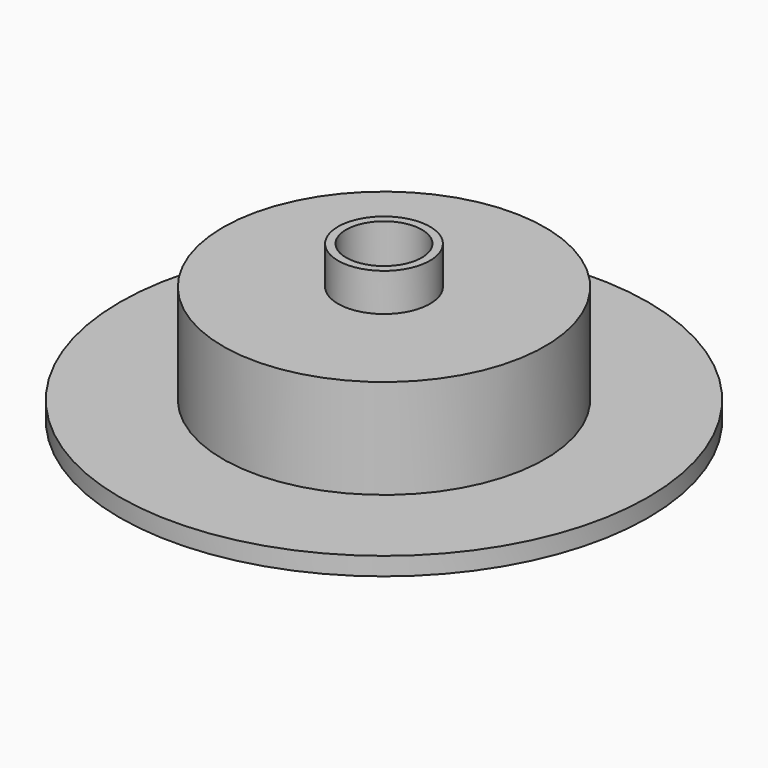
from build123d import *

# Parameters (mm, degrees)
F2_R     = 7
F3_DEPTH = 61.8


with BuildPart() as f1:
    # F0 (on Front) → F1 (revolve)
    with BuildSketch(Plane.XZ):
        Polygon((-84.75, 0), (-19.9375, 0), (-19.9375, 83.8), (-24.225, 83.8), (-24.225, 63.8), (-84.75, 63.8), (-84.75, 11.5), (-139, 11.5), (-139, 2), (-84.75, 2), align=None)
    revolve(axis=Axis((0, 0, 41.9), (0, 0, 1)))

    # F2 (on Top) → F3 (cut)
    with BuildSketch(Plane.XY):
        with Locations((64.957023, -2.363298)):
            Circle(F2_R)
        with Locations((2.363298, 64.957023)):
            Circle(F2_R)
        with Locations((-64.957023, 2.363298)):
            Circle(F2_R)
        with Locations((-2.363298, -64.957023)):
            Circle(F2_R)
    extrude(amount=F3_DEPTH, mode=Mode.SUBTRACT)


solid = f1.part
